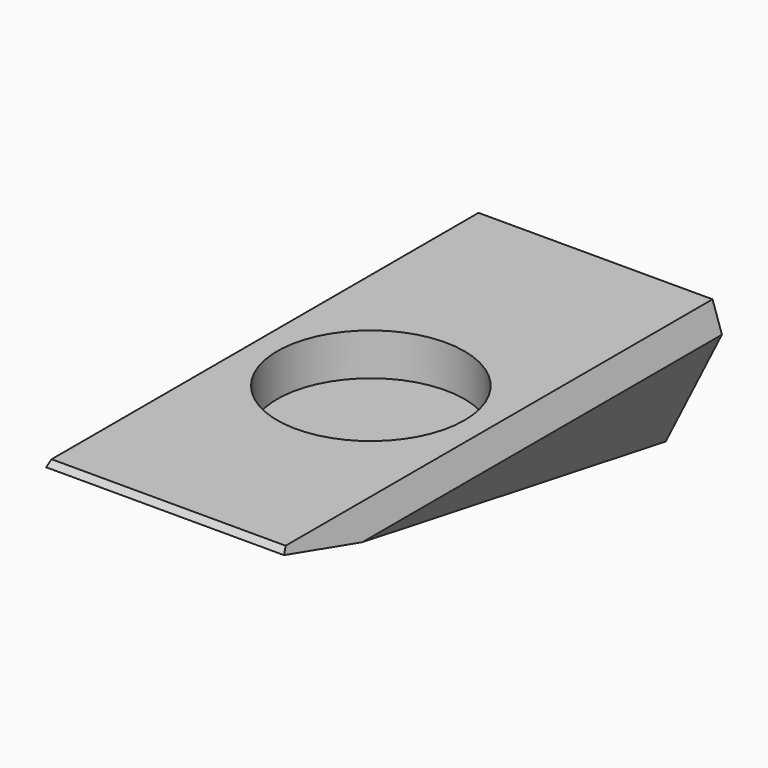
from build123d import *

# Parameters (mm, degrees)
F0_W      = 152.4
F0_H      = 76.2
F1_DEPTH  = 304.8
F3_DEPTH  = 304.8
F5_DEPTH  = 304.8
F7_DEPTH  = 304.8
F9_DEPTH  = 304.8
F11_DEPTH = 304.8
F13_DEPTH = 304.8
F15_DEPTH = 304.8
F16_R     = 50.8
F17_DEPTH = 22.86


with BuildPart() as f1:
    # F0 (on Front) → F1 (new body)
    with BuildSketch(Plane.XZ):
        with Locations((-76.2, 38.1)):
            Rectangle(F0_W, F0_H)
    extrude(amount=F1_DEPTH)

    # F2 (on Right) → F3 (cut)
    with BuildSketch(Plane.YZ):
        Polygon((-304.8, 0), (0, 0), (-304.8, 76.2), align=None)
    extrude(amount=-F3_DEPTH, mode=Mode.SUBTRACT)

    # F4 (on Front) → F5 (cut)
    with BuildSketch(Plane.XZ):
        Polygon((-38.1, 0), (0, 0), (0, 76.2), align=None)
    extrude(amount=F5_DEPTH, mode=Mode.SUBTRACT)

    # F6 (on Front) → F7 (cut)
    with BuildSketch(Plane.XZ):
        Polygon((-152.4, 0), (-114.3, 0), (-152.4, 76.2), align=None)
    extrude(amount=F7_DEPTH, mode=Mode.SUBTRACT)

    # F8 (on Right) → F9 (cut)
    with BuildSketch(Plane.YZ):
        Polygon((-304.8, 76.2), (-304.8, 55.721472), (-289.56, 76.2), align=None)
    extrude(amount=-F9_DEPTH, mode=Mode.SUBTRACT)

    # F10 (on Front) → F11 (cut)
    with BuildSketch(Plane.XZ):
        Polygon((-12.7, 76.2), (0, 38.1), (0, 76.2), align=None)
    extrude(amount=F11_DEPTH, mode=Mode.SUBTRACT)

    # F12 (on Front) → F13 (cut)
    with BuildSketch(Plane.XZ):
        Polygon((-152.4, 76.2), (-152.4, 38.1), (-139.7, 76.2), align=None)
    extrude(amount=F13_DEPTH, mode=Mode.SUBTRACT)

    # F14 (on Front) → F15 (cut)
    with BuildSketch(Plane.XZ):
        Polygon((-76.2, 0), (-38.1, 0), (-76.2, 25.4), align=None)
        Polygon((-114.3, 0), (-76.2, 0), (-76.2, 25.4), align=None)
    extrude(amount=F15_DEPTH, mode=Mode.SUBTRACT)

    # F16 (on face) → F17 (cut)
    with BuildSketch(Plane.XY.offset(76.2)):
        with Locations((-76.2, -152.4)):
            Circle(F16_R)
    extrude(amount=-F17_DEPTH, mode=Mode.SUBTRACT)


solid = f1.part
